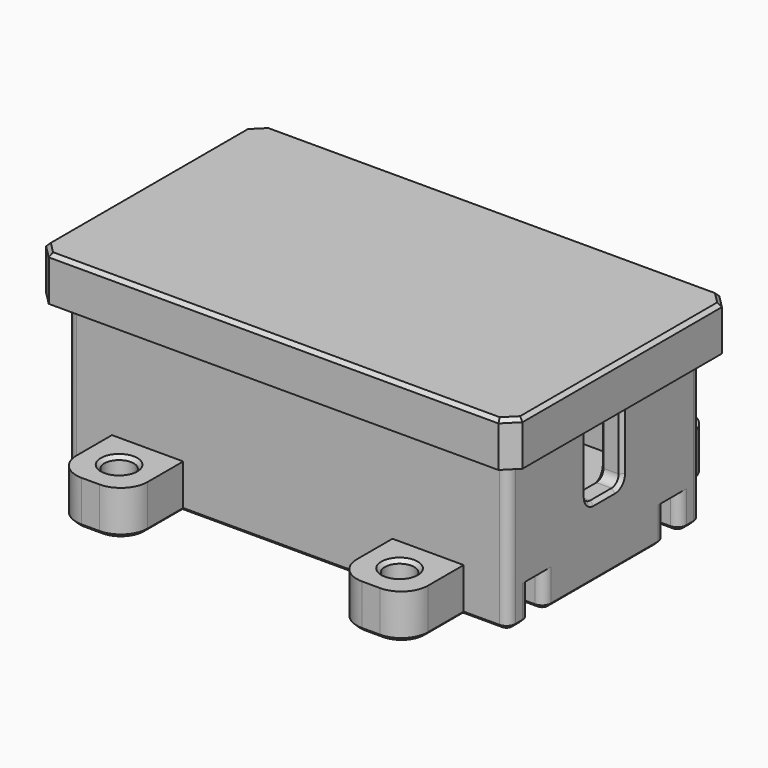
from build123d import *

# Parameters (mm, degrees)
SKETCH_W        = 49.5
SKETCH_H        = 27
PAD_DEPTH       = 20
SKETCH001_W     = 44.5
SKETCH001_H     = 22
POCKET_DEPTH    = 15
SKETCH002_W     = 3
SKETCH002_H     = 5
POCKET001_DEPTH = 4
SKETCH003_W     = 5
SKETCH003_H     = 12
POCKET002_DEPTH = 49.501
SKETCH004_R     = 1.4
PAD001_DEPTH    = 5
FILLET_R        = 1
SKETCH005_W     = 8
SKETCH005_H     = 8
SKETCH005_R     = 1.65
PAD002_DEPTH    = 5
FILLET001_R     = 3
PAD003_DEPTH    = 10
CHAMFER002_SIZE = 0.4
SKETCH007_W     = 53.5
SKETCH007_H     = 31
PAD004_DEPTH    = 5
SKETCH008_W     = 49.8
SKETCH008_H     = 27.3
POCKET003_DEPTH = 3.5
POCKET004_DEPTH = 11
FILLET002_R     = 0.4
SKETCH010_W     = 22
SKETCH010_H     = 27.5
POCKET005_DEPTH = 1
CHAMFER_SIZE    = 1.5
CHAMFER003_SIZE = 0.4
CHAMFER004_SIZE = 0.4
SKETCH011_R     = 3.45
POCKET006_DEPTH = 1


with BuildPart() as body:
    # Sketch → Pad (new body)
    with BuildSketch(Plane.XY):
        with Locations((24.75, 13.5)):
            Rectangle(SKETCH_W, SKETCH_H)
    extrude(amount=PAD_DEPTH)

    # Sketch001 (on Face6 of Pad) → Pocket (cut)
    with BuildSketch(Plane.XY.offset(20)):
        with Locations((24.75, 13.5)):
            Rectangle(SKETCH001_W, SKETCH001_H)
    extrude(amount=-POCKET_DEPTH, mode=Mode.SUBTRACT)

    # Sketch002 (on Face4 of Pocket) → Pocket001 (cut)
    with BuildSketch(Plane(origin=(0, 0, 0), x_dir=(1, 0, 0), z_dir=(0, 0, -1))):
        Polygon((0, -3), (49.5, -3), (49.5, -5), (24, -5), (24, -12), (7, -12), (7, -5), (0, -5), align=None)
        with Locations((15.5, -7.5)):
            Rectangle(SKETCH002_W, SKETCH002_H, mode=Mode.SUBTRACT)
        with Locations((10.5, -7.5)):
            Rectangle(SKETCH002_W, SKETCH002_H, mode=Mode.SUBTRACT)
        with Locations((20.5, -7.5)):
            Rectangle(SKETCH002_W, SKETCH002_H, mode=Mode.SUBTRACT)
        Polygon((0, -24), (49.5, -24), (49.5, -22), (42.5, -22), (42.5, -15), (25.5, -15), (25.5, -22), (0, -22), align=None)
        with Locations((29, -19.5)):
            Rectangle(SKETCH002_W, SKETCH002_H, mode=Mode.SUBTRACT)
        with Locations((34, -19.5)):
            Rectangle(SKETCH002_W, SKETCH002_H, mode=Mode.SUBTRACT)
        with Locations((39, -19.5)):
            Rectangle(SKETCH002_W, SKETCH002_H, mode=Mode.SUBTRACT)
    extrude(amount=-POCKET001_DEPTH, mode=Mode.SUBTRACT)

    # Sketch003 (on Face2 of Pocket001) → Pocket002 (cut, through all)
    with BuildSketch(Plane(origin=(0, 0, 0), x_dir=(0, -1, 0), z_dir=(-1, 0, 0))):
        with Locations((-13.5, 14)):
            Rectangle(SKETCH003_W, SKETCH003_H)
    extrude(amount=-POCKET002_DEPTH, mode=Mode.SUBTRACT)

    # Sketch004 (on Face58 of Pocket002) → Pad001 (join)
    with BuildSketch(Plane.XY.offset(5)):
        with Locations((9.5, 21.5)):
            Circle(SKETCH004_R)
        with Locations((40, 5.5)):
            Circle(SKETCH004_R)
    extrude(amount=PAD001_DEPTH)

    # Fillet
    fillet_edges = [body.edges().sort_by_distance(p)[0] for p in [
        (48.25, 11, 20),
        (48.25, 16, 20),
        (1.25, 11, 20),
        (1.25, 16, 20),
        (48.25, 11, 8),
        (1.25, 11, 8),
        (1.25, 16, 8),
        (48.25, 16, 8),
        (49.5, 0, 10),
        (49.5, 27, 10),
        (49.5, 3, 2),
        (49.5, 5, 2),
        (49.5, 22, 2),
        (49.5, 24, 2),
        (0, 27, 10),
        (0, 24, 2),
        (0, 22, 2),
        (0, 5, 2),
        (0, 3, 2),
        (0, 0, 10),
        (42.5, 22, 2),
        (40.5, 22, 2),
        (37.5, 22, 2),
        (35.5, 22, 2),
        (32.5, 22, 2),
        (30.5, 22, 2),
        (27.5, 22, 2),
        (25.5, 22, 2),
        (25.5, 15, 2),
        (42.5, 15, 2),
        (40.5, 17, 2),
        (37.5, 17, 2),
        (35.5, 17, 2),
        (32.5, 17, 2),
        (30.5, 17, 2),
        (27.5, 17, 2),
        (24, 5, 2),
        (24, 12, 2),
        (22, 5, 2),
        (19, 5, 2),
        (17, 5, 2),
        (14, 5, 2),
        (12, 5, 2),
        (9, 5, 2),
        (7, 12, 2),
        (7, 5, 2),
        (22, 10, 2),
        (19, 10, 2),
        (17, 10, 2),
        (14, 10, 2),
        (12, 10, 2),
        (9, 10, 2),
    ]]
    fillet(fillet_edges, radius=FILLET_R)

    # Sketch005 (on Face26 of Fillet) → Pad002 (join)
    with BuildSketch(Plane(origin=(0, 0, 0), x_dir=(1, 0, 0), z_dir=(0, 0, -1))):
        with Locations((9, 4)):
            Rectangle(SKETCH005_W, SKETCH005_H)
        with Locations((9, 4)):
            Circle(SKETCH005_R, mode=Mode.SUBTRACT)
        with Locations((40.5, 4)):
            Rectangle(SKETCH005_W, SKETCH005_H)
        with Locations((40.5, 4)):
            Circle(SKETCH005_R, mode=Mode.SUBTRACT)
        with Locations((9, -31)):
            Rectangle(SKETCH005_W, SKETCH005_H)
        with Locations((9, -31)):
            Circle(SKETCH005_R, mode=Mode.SUBTRACT)
        with Locations((40.5, -31)):
            Rectangle(SKETCH005_W, SKETCH005_H)
        with Locations((40.5, -31)):
            Circle(SKETCH005_R, mode=Mode.SUBTRACT)
    extrude(amount=-PAD002_DEPTH)

    # Fillet001
    fillet001_edges = [body.edges().sort_by_distance(p)[0] for p in [
        (5, -8, 2.5),
        (13, -8, 2.5),
        (36.5, -8, 2.5),
        (44.5, -8, 2.5),
        (44.5, 35, 2.5),
        (36.5, 35, 2.5),
        (13, 35, 2.5),
        (5, 35, 2.5),
    ]]
    fillet(fillet001_edges, radius=FILLET001_R)

    # Sketch006 (on DatumPlane) → Pad003 (join, symmetric)
    with BuildSketch(Plane.YZ.offset(24.75)):
        Polygon((0, 19.383507), (-1, 18.191754), (0, 17), align=None)
        Polygon((27, 19.383507), (27, 17), (28, 18.191754), align=None)
    extrude(amount=PAD003_DEPTH, both=True)

    # Chamfer002
    chamfer002_edges = [body.edges().sort_by_distance(p)[0] for p in [
        (0, 25.5, 0),
        (0.292893, 26.707107, 0),
        (3, 27, 0),
        (5, 29.5, 0),
        (5.87868, 34.12132, 0),
        (9, 35, 0),
        (12.12132, 34.12132, 0),
        (13, 29.5, 0),
        (24.75, 27, 0),
        (36.5, 29.5, 0),
        (37.37868, 34.12132, 0),
        (40.5, 35, 0),
        (43.62132, 34.12132, 0),
        (44.5, 29.5, 0),
        (46.5, 27, 0),
        (49.207107, 26.707107, 0),
        (49.5, 25.5, 0),
        (49.207107, 24.292893, 0),
        (24.75, 24, 0),
        (0.292893, 24.292893, 0),
        (7.35, 31, 0),
        (38.85, 31, 0),
        (0, 13.5, 0),
        (0.292893, 21.707107, 0),
        (0.292893, 5.292893, 0),
        (12.75, 22, 0),
        (3.5, 5, 0),
        (25.207107, 21.707107, 0),
        (6.707107, 5.292893, 0),
        (25.5, 18.5, 0),
        (7, 8.5, 0),
        (25.792893, 15.292893, 0),
        (7.292893, 11.707107, 0),
        (34, 15, 0),
        (15.5, 12, 0),
        (42.207107, 15.292893, 0),
        (23.707107, 11.707107, 0),
        (42.5, 18.5, 0),
        (24, 8.5, 0),
        (42.792893, 21.707107, 0),
        (24.292893, 5.292893, 0),
        (46, 22, 0),
        (36.75, 5, 0),
        (49.207107, 21.707107, 0),
        (49.207107, 5.292893, 0),
        (49.5, 13.5, 0),
        (13, -2.5, 0),
        (12.12132, -7.12132, 0),
        (9, -8, 0),
        (5.87868, -7.12132, 0),
        (5, -2.5, 0),
        (3, 0, 0),
        (0.292893, 0.292893, 0),
        (0, 1.5, 0),
        (0.292893, 2.707107, 0),
        (24.75, 3, 0),
        (49.207107, 2.707107, 0),
        (49.5, 1.5, 0),
        (49.207107, 0.292893, 0),
        (46.5, 0, 0),
        (44.5, -2.5, 0),
        (43.62132, -7.12132, 0),
        (40.5, -8, 0),
        (37.37868, -7.12132, 0),
        (36.5, -2.5, 0),
        (24.75, 0, 0),
        (7.35, -4, 0),
        (38.85, -4, 0),
        (37.5, 19.5, 0),
        (37.792893, 21.707107, 0),
        (37.792893, 17.292893, 0),
        (39, 22, 0),
        (39, 17, 0),
        (40.207107, 21.707107, 0),
        (40.207107, 17.292893, 0),
        (40.5, 19.5, 0),
        (32.5, 19.5, 0),
        (32.792893, 21.707107, 0),
        (32.792893, 17.292893, 0),
        (34, 22, 0),
        (34, 17, 0),
        (35.207107, 21.707107, 0),
        (35.207107, 17.292893, 0),
        (35.5, 19.5, 0),
        (27.5, 19.5, 0),
        (27.792893, 21.707107, 0),
        (27.792893, 17.292893, 0),
        (29, 22, 0),
        (29, 17, 0),
        (30.207107, 21.707107, 0),
        (30.207107, 17.292893, 0),
        (30.5, 19.5, 0),
        (49.5, 10.707107, 19.707107),
        (49.5, 5.5, 20),
        (49.207107, 0.292893, 20),
        (24.75, 0, 20),
        (0.292893, 0.292893, 20),
        (0, 5.5, 20),
        (0, 10.707107, 19.707107),
        (0, 11, 14),
        (0, 11.292893, 8.292893),
        (0, 13.5, 8),
        (0, 15.707107, 8.292893),
        (0, 16, 14),
        (0, 16.292893, 19.707107),
        (0, 21.5, 20),
        (0.292893, 26.707107, 20),
        (24.75, 27, 20),
        (49.207107, 26.707107, 20),
        (49.5, 21.5, 20),
        (49.5, 16.292893, 19.707107),
        (49.5, 11, 14),
        (49.5, 11.292893, 8.292893),
        (49.5, 13.5, 8),
        (49.5, 15.707107, 8.292893),
        (49.5, 16, 14),
        (47, 16.292893, 19.707107),
        (47, 16, 14),
        (47, 15.707107, 8.292893),
        (47, 13.5, 8),
        (47, 11.292893, 8.292893),
        (47, 11, 14),
        (47, 10.707107, 19.707107),
        (47, 6.25, 20),
        (24.75, 2.5, 20),
        (2.5, 6.25, 20),
        (2.5, 10.707107, 19.707107),
        (2.5, 11, 14),
        (2.5, 11.292893, 8.292893),
        (2.5, 13.5, 8),
        (2.5, 15.707107, 8.292893),
        (2.5, 16, 14),
        (2.5, 16.292893, 19.707107),
        (2.5, 20.75, 20),
        (24.75, 24.5, 20),
        (47, 20.75, 20),
        (7.35, -4, 5),
        (38.85, -4, 5),
        (38.85, 31, 5),
        (7.35, 31, 5),
    ]]
    chamfer(chamfer002_edges, length=CHAMFER002_SIZE)


with BuildPart() as body001:
    # Sketch007 → Pad004 (new body)
    with BuildSketch(Plane.XY):
        with Locations((24.75, 13.5)):
            Rectangle(SKETCH007_W, SKETCH007_H)
    extrude(amount=-PAD004_DEPTH)

    # Sketch008 (on Face6 of Pad004) → Pocket003 (cut)
    with BuildSketch(Plane(origin=(0, 0, -5), x_dir=(1, 0, 0), z_dir=(0, 0, -1))):
        with Locations((24.75, -13.5)):
            Rectangle(SKETCH008_W, SKETCH008_H)
    extrude(amount=-POCKET003_DEPTH, mode=Mode.SUBTRACT)

    # Sketch009 (on DatumPlane) → Pocket004 (cut, symmetric)
    with BuildSketch(Plane.YZ.offset(24.75)):
        Polygon((-0.15, -2.058246), (-1.15, -3.25), (-0.15, -4.441754), align=None)
        Polygon((27.15, -2.058246), (28.15, -3.25), (27.15, -4.441754), align=None)
    extrude(amount=POCKET004_DEPTH, both=True, mode=Mode.SUBTRACT)

    # Fillet002
    fillet002_edges = [body001.edges().sort_by_distance(p)[0] for p in [
        (49.65, 13.5, -5),
        (24.75, 27.15, -1.5),
    ]]
    fillet(fillet002_edges, radius=FILLET002_R)

    # Sketch010 (on Face1 of Fillet002) → Pocket005 (cut)
    with BuildSketch(Plane(origin=(0, 0, -5), x_dir=(1, 0, 0), z_dir=(0, 0, -1))):
        with Locations((24.75, -13.5)):
            Rectangle(SKETCH010_W, SKETCH010_H)
    extrude(amount=-POCKET005_DEPTH, mode=Mode.SUBTRACT)

    # Chamfer
    chamfer_edges = [body001.edges().sort_by_distance(p)[0] for p in [
        (51.5, 29, -2.5),
        (51.5, -2, -2.5),
        (-2, -2, -2.5),
        (-2, 29, -2.5),
    ]]
    chamfer(chamfer_edges, length=CHAMFER_SIZE)

    # Chamfer003
    chamfer003_edges = [body001.edges().sort_by_distance(p)[0] for p in [
        (24.75, 29, 0),
        (-1.25, 28.25, 0),
        (50.75, 28.25, 0),
        (-2, 13.5, 0),
        (51.5, 13.5, 0),
        (-1.25, -1.25, 0),
        (50.75, -1.25, 0),
        (24.75, -2, 0),
    ]]
    chamfer(chamfer003_edges, length=CHAMFER003_SIZE)

    # Chamfer004
    chamfer004_edges = [body001.edges().sort_by_distance(p)[0] for p in [
        (24.75, 27.25, -5),
        (24.75, -0.25, -5),
    ]]
    chamfer(chamfer004_edges, length=CHAMFER004_SIZE)

    # Sketch011 (on Face25 of Chamfer004) → Pocket006 (cut)
    with BuildSketch(Plane(origin=(0, 0, -1.5), x_dir=(1, 0, 0), z_dir=(0, 0, -1))):
        with Locations((19, -3.5)):
            Circle(SKETCH011_R)
    extrude(amount=-POCKET006_DEPTH, mode=Mode.SUBTRACT)


with BuildPart() as body001_1:
    # Body001 placement: moved
    add(body001.part.moved(Location((0, 0, 22))))


solid = Compound([body.part, body001_1.part])
